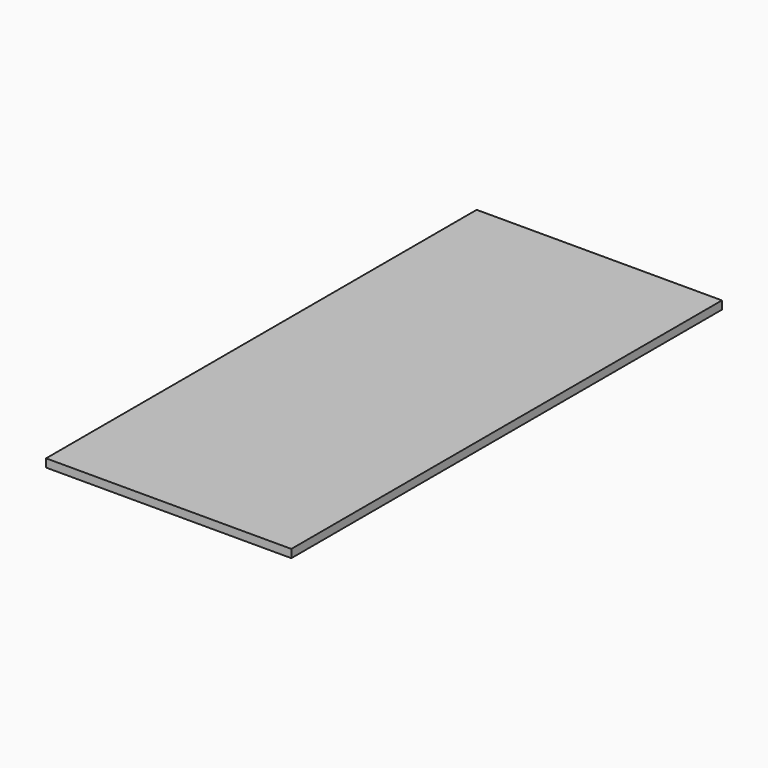
from build123d import *

# Parameters (mm, degrees)
F0_W     = 36
F0_H     = 79
F0_W_2   = 16
F0_H_2   = 75
F0_R     = 3
F0_R_2   = 1.5
F1_DEPTH = 1.2


with BuildPart() as f1:
    # F0 (on Top) → F1 (new body)
    with BuildSketch(Plane.XY):
        with Locations((2.8571428571, 0)):
            Rectangle(F0_W, F0_H)
        Polygon((2.8571428571, 37.5), (18.8571428571, 37.5), (18.8571428571, -37.5), (2.8571428571, -37.5), (-13.1428571429, -37.5), (-13.1428571429, 37.5), align=None, mode=Mode.SUBTRACT)
        with Locations((-5.1428571429, 0)):
            Rectangle(F0_W_2, F0_H_2)
        with Locations((-7.1428571429, -25)):
            Circle(F0_R, mode=Mode.SUBTRACT)
        with Locations((-7.1428571429, 25)):
            Circle(F0_R, mode=Mode.SUBTRACT)
        with Locations((10.8571428571, 0)):
            Rectangle(F0_W_2, F0_H_2)
        with Locations((-7.1428571429, 25)):
            Circle(F0_R)
        with Locations((-7.1428571429, 25)):
            Circle(F0_R_2, mode=Mode.SUBTRACT)
        with Locations((-7.1428571429, -25)):
            Circle(F0_R)
        with Locations((-7.1428571429, -25)):
            Circle(F0_R_2, mode=Mode.SUBTRACT)
        with Locations((-7.1428571429, 25)):
            Circle(F0_R_2)
        with Locations((-7.1428571429, -25)):
            Circle(F0_R_2)
    extrude(amount=F1_DEPTH)


solid = f1.part
